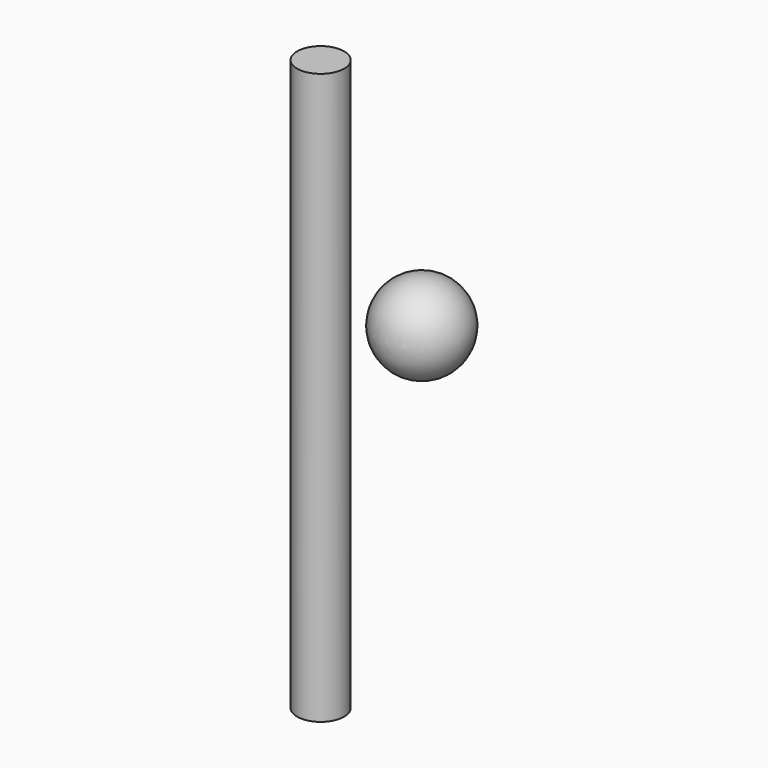
from build123d import *

# Parameters (mm, degrees)
F0_R     = 7.7460104288
F1_DEPTH = 93.98


with BuildPart() as f1:
    # F0 (on Top) → F1 (new body, symmetric)
    with BuildSketch(Plane.XY):
        Circle(F0_R)
    extrude(amount=F1_DEPTH, both=True)


with BuildPart() as f3:
    # F2 (on Top) → F3 (revolve)
    with BuildSketch(Plane.XY):
        with BuildLine():
            ThreePointArc((-14.3271069974, 41.6582636535), (0, 27.3311566561), (14.3271069974, 41.6582636535))
            Line((14.3271069974, 41.6582636535), (0, 41.6582636535))
            Line((0, 41.6582636535), (-14.3271069974, 41.6582636535))
        make_face()
    revolve(axis=Axis((10.9106395394, 41.6582636535, 0), (1, 0, 0)))


solid = Compound([f1.part, f3.part])
